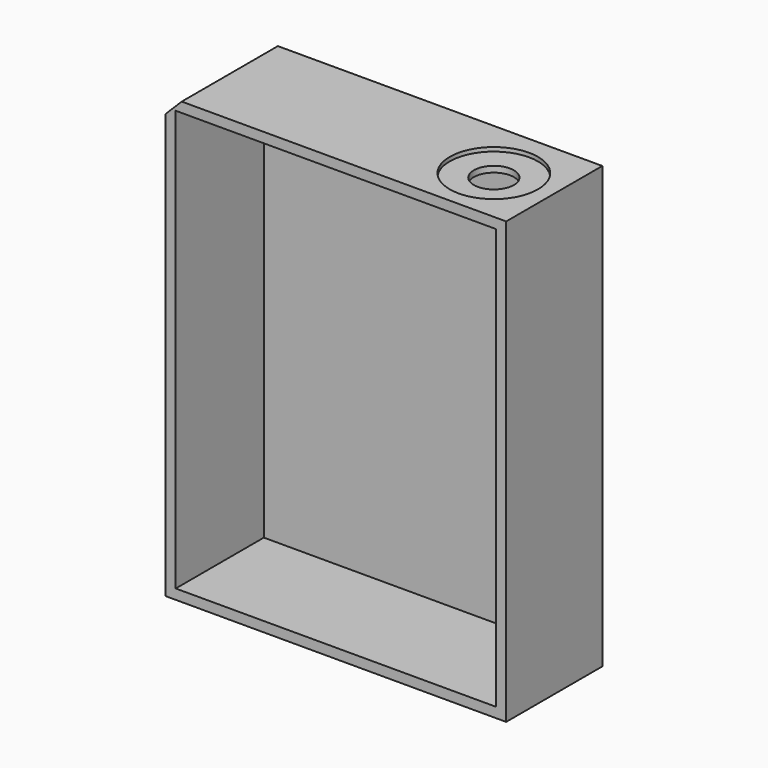
from build123d import *

# Parameters (mm, degrees)
F1_DEPTH = 30
F2_R     = 11
F3_DEPTH = 0.5
F4_T     = -2.5
F5_R     = 11
F6_DEPTH = 1
F7_R     = 5
F8_DEPTH = 1.5
F9_SIZE2 = 4
F9_SIZE  = 4


with BuildPart() as f1:
    # F0 (on Front) → F1 (new body)
    with BuildSketch(Plane.XZ):
        Polygon((42.5, -55), (42.5, 55), (-24.856195, 55), (-42.5, 37.632745), (-42.5, -55), align=None)
        Polygon((-42.5, 37.632745), (-24.856195, 55), (-42.5, 55), align=None)
    extrude(amount=F1_DEPTH)

    # F2 (on face) → F3 (join)
    with BuildSketch(Plane.XY.offset(55)):
        with Locations((25.320798, -14.402656)):
            Circle(F2_R)
    extrude(amount=-F3_DEPTH)

    # F4
    f4_openings = [f1.faces().sort_by_distance(p)[0] for p in [
        (0, -30, 0),
    ]]
    offset(amount=F4_T, openings=f4_openings)

    # F5 (on face) → F6 (cut)
    with BuildSketch(Plane.XY.offset(55)):
        with Locations((27.876107, -15.56416)):
            Circle(F5_R)
    extrude(amount=-F6_DEPTH, mode=Mode.SUBTRACT)

    # F7 (on face) → F8 (cut)
    with BuildSketch(Plane.XY.offset(54)):
        with Locations((27.876107, -15.56416)):
            Circle(F7_R)
    extrude(amount=-F8_DEPTH, mode=Mode.SUBTRACT)

    # F9
    f9_edges = [f1.edges().sort_by_distance(p)[0] for p in [
        (-42.5, -15, 55),
    ]]
    chamfer(f9_edges, length=F9_SIZE, length2=F9_SIZE2)


solid = f1.part
